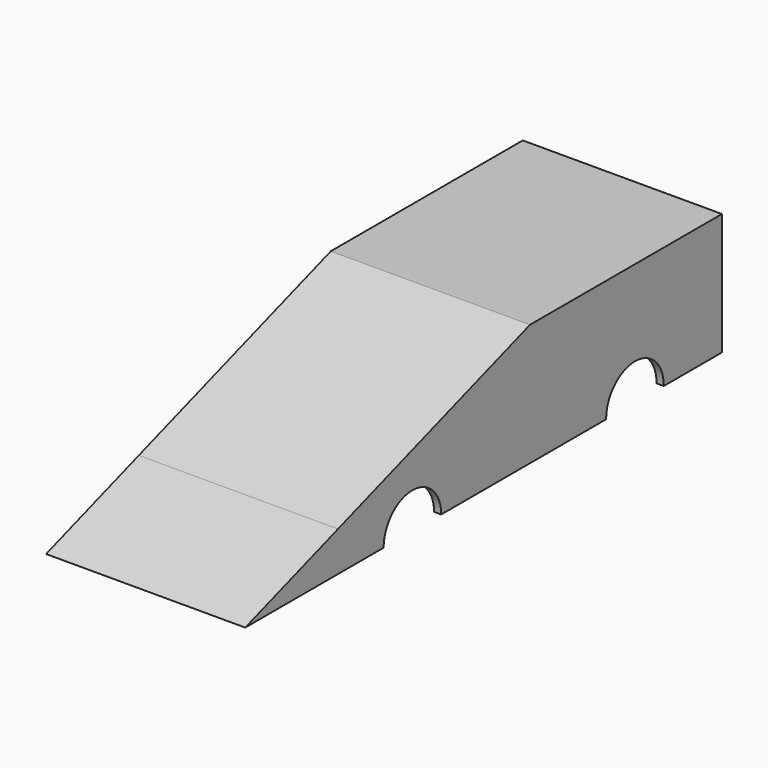
from build123d import *

# Parameters (mm, degrees)
F0_W     = 200
F0_H     = 50.8
F1_DEPTH = 83
F3_DEPTH = 83
F4_DEPTH = 83
F5_T     = -3
F7_DEPTH = 101.6


with BuildPart() as f1:
    # F0 (on Right) → F1 (new body)
    with BuildSketch(Plane.YZ):
        Rectangle(F0_W, F0_H)
    extrude(amount=F1_DEPTH)

    # F2 (on face) → F3 (cut)
    with BuildSketch(Plane.YZ.offset(83)):
        Polygon((-100, -8.856749), (0, 25.4), (-100, 25.4), align=None)
    extrude(amount=-F3_DEPTH, mode=Mode.SUBTRACT)

    # F2 (on face) → F4 (join)
    with BuildSketch(Plane.YZ.offset(83)):
        Polygon((0, -25.4), (0, 25.4), (-148.291945, -25.4), align=None)
    extrude(amount=-F4_DEPTH)

    # F5
    f5_openings = [f1.faces().sort_by_distance(p)[0] for p in [
        (41.5, -24.145973, -25.4),
    ]]
    offset(amount=F5_T, openings=f5_openings)

    # F6 (on face) → F7 (cut)
    with BuildSketch(Plane.YZ.offset(83)):
        with BuildLine():
            Line((-76.226585, -25.4), (-46.226585, -25.4))
            ThreePointArc((-46.226585, -25.4), (-61.226585, -10.4), (-76.226585, -25.4))
        make_face()
        with BuildLine():
            ThreePointArc((69.692981, -25.4), (54.694057, -10.220377), (39.695133, -25.4))
            Line((39.695133, -25.4), (69.692981, -25.4))
        make_face()
    extrude(amount=-F7_DEPTH, mode=Mode.SUBTRACT)


solid = f1.part
